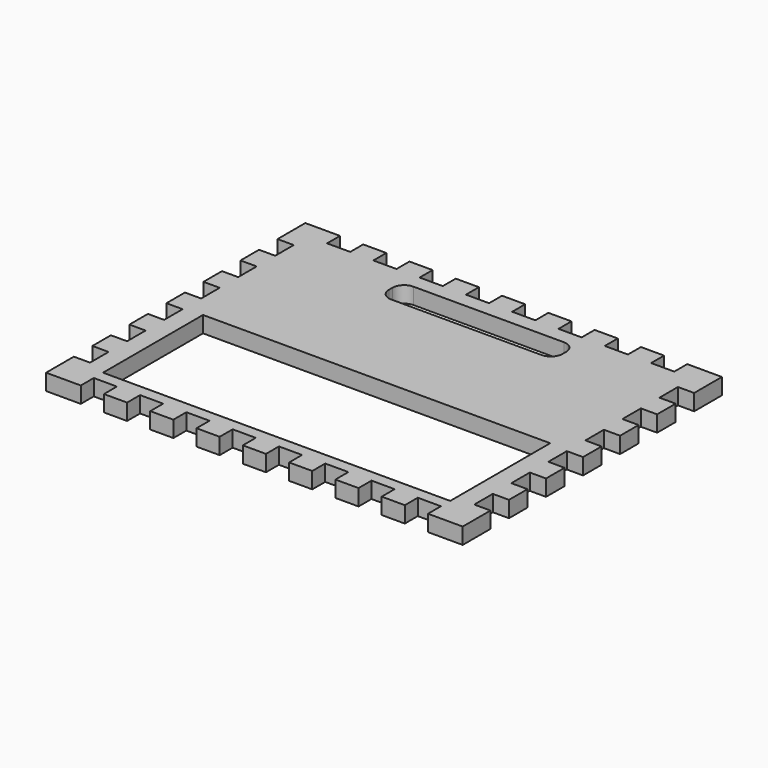
from build123d import *

# Parameters (mm, degrees)
F0_W     = 190.5
F0_H     = 68.58
F1_DEPTH = 8.89
F2_DEPTH = 8.89


with BuildPart() as f1:
    # F0 (on Top) → F1 (new body)
    with BuildSketch(Plane.XY):
        Polygon((19.05, 0), (0, 0), (0, -19.05), (8.89, -19.05), (8.89, -31.75), (0, -31.75), (0, -44.45), (8.89, -44.45), (8.89, -57.15), (0, -57.15), (0, -69.85), (8.89, -69.85), (8.89, -82.55), (0, -82.55), (0, -95.25), (8.89, -95.25), (8.89, -107.95), (0, -107.95), (0, -120.65), (8.89, -120.65), (8.89, -133.35), (0, -133.35), (0, -146.05), (8.89, -146.05), (8.89, -158.75), (0, -158.75), (0, -177.8), (19.05, -177.8), (19.05, -168.91), (31.75, -168.91), (31.75, -177.8), (44.45, -177.8), (44.45, -168.91), (57.15, -168.91), (57.15, -177.8), (69.85, -177.8), (69.85, -168.91), (82.55, -168.91), (82.55, -177.8), (95.25, -177.8), (95.25, -168.91), (107.95, -168.91), (107.95, -177.8), (120.65, -177.8), (120.65, -168.91), (133.35, -168.91), (133.35, -177.8), (146.05, -177.8), (146.05, -168.91), (158.75, -168.91), (158.75, -177.8), (171.45, -177.8), (171.45, -168.91), (184.15, -168.91), (184.15, -177.8), (196.85, -177.8), (196.85, -168.91), (209.55, -168.91), (209.55, -177.8), (228.6, -177.8), (228.6, -158.75), (219.71, -158.75), (219.71, -146.05), (228.6, -146.05), (228.6, -133.35), (219.71, -133.35), (219.71, -120.65), (228.6, -120.65), (228.6, -107.95), (219.71, -107.95), (219.71, -95.25), (228.6, -95.25), (228.6, -82.55), (219.71, -82.55), (219.71, -69.85), (228.6, -69.85), (228.6, -57.15), (219.71, -57.15), (219.71, -44.45), (228.6, -44.45), (228.6, -31.75), (219.71, -31.75), (219.71, -19.05), (228.6, -19.05), (228.6, 0), (209.55, 0), (209.55, -8.89), (196.85, -8.89), (196.85, 0), (184.15, 0), (184.15, -8.89), (171.45, -8.89), (171.45, 0), (158.75, 0), (158.75, -8.89), (146.05, -8.89), (146.05, 0), (133.35, 0), (133.35, -8.89), (120.65, -8.89), (120.65, 0), (107.95, 0), (107.95, -8.89), (95.25, -8.89), (95.25, 0), (82.55, 0), (82.55, -8.89), (69.85, -8.89), (69.85, 0), (57.15, 0), (57.15, -8.89), (44.45, -8.89), (44.45, 0), (31.75, 0), (31.75, -8.89), (19.05, -8.89), align=None)
        with Locations((114.3, -128.27)):
            Rectangle(F0_W, F0_H, mode=Mode.SUBTRACT)
        with BuildLine():
            ThreePointArc((66.675, -23.495), (68.534872, -19.004872), (73.025, -17.145))
            Line((73.025, -17.145), (155.575, -17.145))
            ThreePointArc((155.575, -17.145), (160.065128, -19.004872), (161.925, -23.495))
            Line((161.925, -23.495), (161.925, -26.035))
            ThreePointArc((161.925, -26.035), (160.065128, -30.525128), (155.575, -32.385))
            Line((155.575, -32.385), (73.025, -32.385))
            ThreePointArc((73.025, -32.385), (68.534872, -30.525128), (66.675, -26.035))
            Line((66.675, -26.035), (66.675, -23.495))
        make_face(mode=Mode.SUBTRACT)
    extrude(amount=F1_DEPTH)


with BuildPart() as f2:
    # F0 (on Top) → F2 (new body)
    with BuildSketch(Plane.XY):
        Polygon((19.05, 0), (0, 0), (0, -19.05), (8.89, -19.05), (8.89, -31.75), (0, -31.75), (0, -44.45), (8.89, -44.45), (8.89, -57.15), (0, -57.15), (0, -69.85), (8.89, -69.85), (8.89, -82.55), (0, -82.55), (0, -95.25), (8.89, -95.25), (8.89, -107.95), (0, -107.95), (0, -120.65), (8.89, -120.65), (8.89, -133.35), (0, -133.35), (0, -146.05), (8.89, -146.05), (8.89, -158.75), (0, -158.75), (0, -177.8), (19.05, -177.8), (19.05, -168.91), (31.75, -168.91), (31.75, -177.8), (44.45, -177.8), (44.45, -168.91), (57.15, -168.91), (57.15, -177.8), (69.85, -177.8), (69.85, -168.91), (82.55, -168.91), (82.55, -177.8), (95.25, -177.8), (95.25, -168.91), (107.95, -168.91), (107.95, -177.8), (120.65, -177.8), (120.65, -168.91), (133.35, -168.91), (133.35, -177.8), (146.05, -177.8), (146.05, -168.91), (158.75, -168.91), (158.75, -177.8), (171.45, -177.8), (171.45, -168.91), (184.15, -168.91), (184.15, -177.8), (196.85, -177.8), (196.85, -168.91), (209.55, -168.91), (209.55, -177.8), (228.6, -177.8), (228.6, -158.75), (219.71, -158.75), (219.71, -146.05), (228.6, -146.05), (228.6, -133.35), (219.71, -133.35), (219.71, -120.65), (228.6, -120.65), (228.6, -107.95), (219.71, -107.95), (219.71, -95.25), (228.6, -95.25), (228.6, -82.55), (219.71, -82.55), (219.71, -69.85), (228.6, -69.85), (228.6, -57.15), (219.71, -57.15), (219.71, -44.45), (228.6, -44.45), (228.6, -31.75), (219.71, -31.75), (219.71, -19.05), (228.6, -19.05), (228.6, 0), (209.55, 0), (209.55, -8.89), (196.85, -8.89), (196.85, 0), (184.15, 0), (184.15, -8.89), (171.45, -8.89), (171.45, 0), (158.75, 0), (158.75, -8.89), (146.05, -8.89), (146.05, 0), (133.35, 0), (133.35, -8.89), (120.65, -8.89), (120.65, 0), (107.95, 0), (107.95, -8.89), (95.25, -8.89), (95.25, 0), (82.55, 0), (82.55, -8.89), (69.85, -8.89), (69.85, 0), (57.15, 0), (57.15, -8.89), (44.45, -8.89), (44.45, 0), (31.75, 0), (31.75, -8.89), (19.05, -8.89), align=None)
        with Locations((114.3, -128.27)):
            Rectangle(F0_W, F0_H, mode=Mode.SUBTRACT)
        with BuildLine():
            ThreePointArc((66.675, -23.495), (68.534872, -19.004872), (73.025, -17.145))
            Line((73.025, -17.145), (155.575, -17.145))
            ThreePointArc((155.575, -17.145), (160.065128, -19.004872), (161.925, -23.495))
            Line((161.925, -23.495), (161.925, -26.035))
            ThreePointArc((161.925, -26.035), (160.065128, -30.525128), (155.575, -32.385))
            Line((155.575, -32.385), (73.025, -32.385))
            ThreePointArc((73.025, -32.385), (68.534872, -30.525128), (66.675, -26.035))
            Line((66.675, -26.035), (66.675, -23.495))
        make_face(mode=Mode.SUBTRACT)
    extrude(amount=F2_DEPTH)


solid = Compound([f1.part, f2.part])
